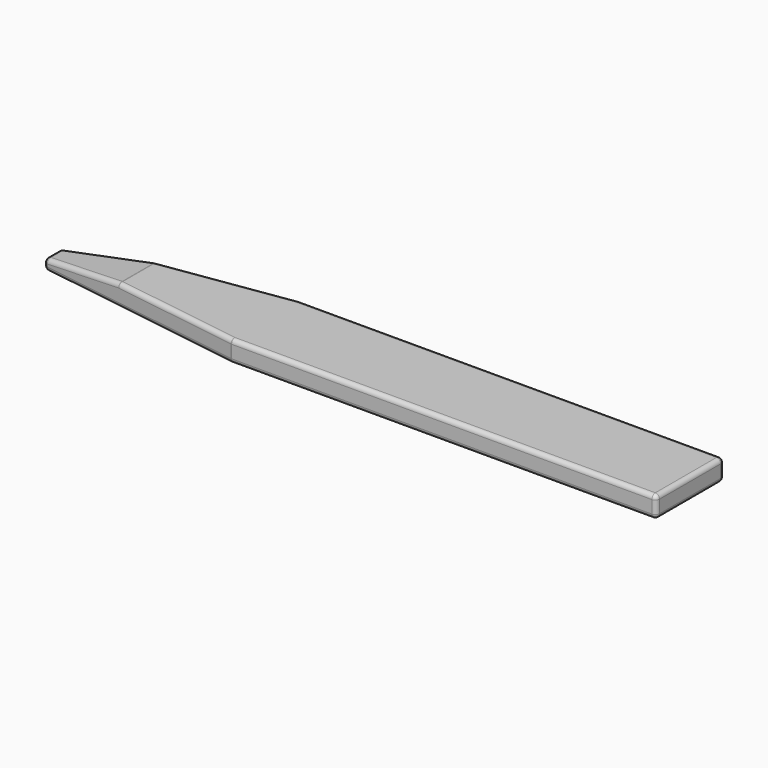
from build123d import *

# Parameters (mm, degrees)
F1_DEPTH = 5
F3_DEPTH = 20.001
F4_R     = 1


with BuildPart() as f1:
    # F0 (on Top) → F1 (new body)
    with BuildSketch(Plane.XY):
        Polygon((0, 20), (-100, 20), (-150, 12.5), (-150, 7.5), (-100, 0), (0, 0), align=None)
    extrude(amount=F1_DEPTH)

    # F2 (on face) → F3 (cut, through all)
    with BuildSketch(Plane.XZ):
        Polygon((-150, 5), (-150, 2.5), (-130, 5), align=None)
    extrude(amount=-F3_DEPTH, mode=Mode.SUBTRACT)

    # F4
    f4_edges = [f1.edges().sort_by_distance(p)[0] for p in [
        (-115, 2.25, 5),
        (-140, 6, 3.75),
        (-150, 10, 2.5),
        (-150, 10, 0),
        (-150, 7.5, 1.25),
        (-150, 12.5, 1.25),
        (-140, 14, 3.75),
        (-115, 17.75, 5),
        (-125, 16.25, 0),
        (-130, 10, 5),
        (-125, 3.75, 0),
        (-50, 0, 0),
        (-50, 0, 5),
        (-100, 0, 2.5),
        (-100, 20, 2.5),
        (-50, 20, 5),
        (-50, 20, 0),
        (0, 20, 2.5),
        (0, 0, 2.5),
        (0, 10, 5),
        (0, 10, 0),
    ]]
    fillet(f4_edges, radius=F4_R)


solid = f1.part
